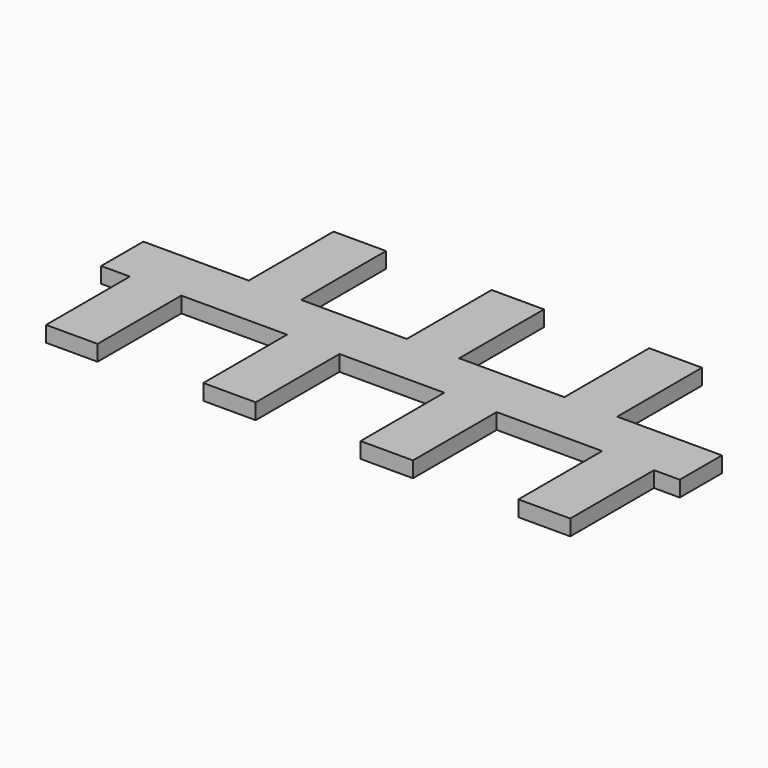
from build123d import *

# Parameters (mm, degrees)
F1_DEPTH = 0.075


with BuildPart() as f1:
    # F0 (on Top) → F1 (new body)
    with BuildSketch(Plane.XY):
        Polygon((0, 0.251041), (0, 0), (0.136561, 0), (0.136561, -0.498578), (0.381687, -0.498578), (0.381687, 0), (0.885391, 0), (0.885391, -0.498578), (1.135001, -0.498578), (1.135001, 0), (1.634221, 0), (1.634221, -0.498578), (1.883831, -0.498578), (1.883831, 0), (2.38604, 0), (2.38604, -0.498578), (2.633039, -0.498578), (2.633039, 0), (2.755638, 0), (2.755638, 0.251041), (2.256786, 0.251041), (2.256786, 0.755991), (2.005245, 0.755991), (2.005245, 0.251041), (1.504279, 0.251041), (1.504279, 0.755991), (1.254853, 0.755991), (1.254853, 0.251041), (0.751772, 0.251041), (0.751772, 0.755991), (0.50213, 0.755991), (0.50213, 0.251041), align=None)
    extrude(amount=F1_DEPTH)


solid = f1.part
